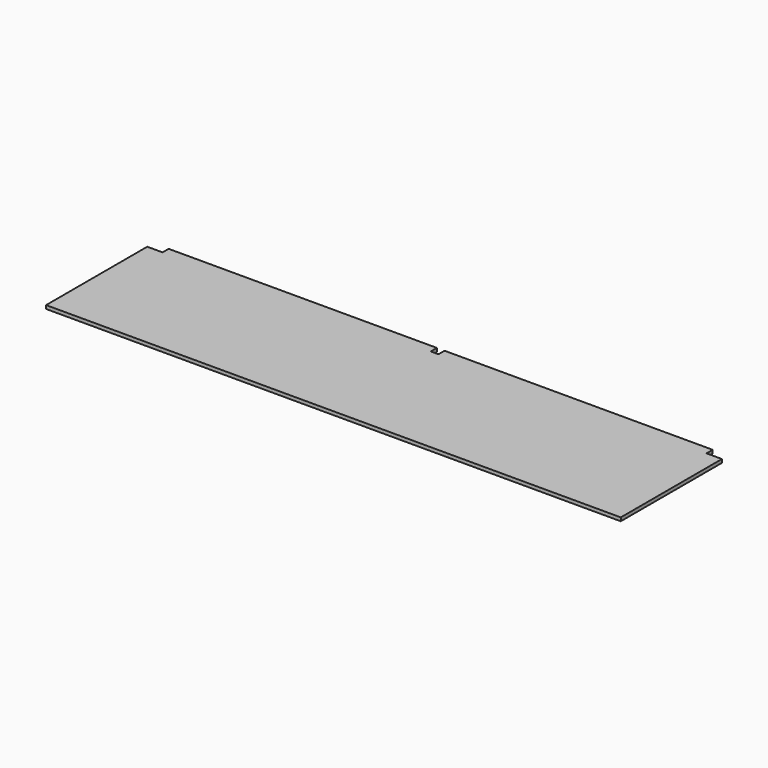
from build123d import *

# Parameters (mm, degrees)
F1_DEPTH = 18


with BuildPart() as f1:
    # F0 (on Top) → F1 (new body)
    with BuildSketch(Plane.XY):
        Polygon((-750, -350), (750, -350), (750, 310), (730, 310), (730, 350), (-670, 350), (-670, 310), (-750, 310), align=None)
        Polygon((750, 310), (750, -350), (2250, -350), (2250, 310), (2170, 310), (2170, 350), (770, 350), (770, 310), align=None)
    extrude(amount=F1_DEPTH)


solid = f1.part
